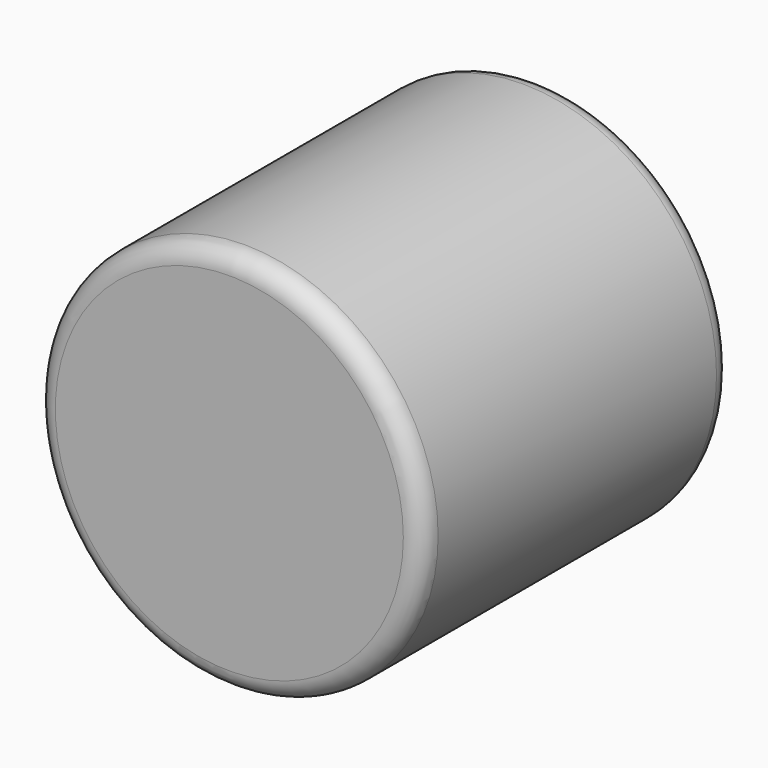
from build123d import *

# Parameters (mm, degrees)
F0_R     = 12.7
F1_DEPTH = 25.4
F2_R     = 1.27


with BuildPart() as f1:
    # F0 (on Front) → F1 (new body)
    with BuildSketch(Plane.XZ):
        Circle(F0_R)
    extrude(amount=-F1_DEPTH)

    # F2
    f2_edges = [f1.edges().sort_by_distance(p)[0] for p in [
        (-12.7, 0, 0),
        (-12.7, 25.4, 0),
    ]]
    fillet(f2_edges, radius=F2_R)


solid = f1.part
